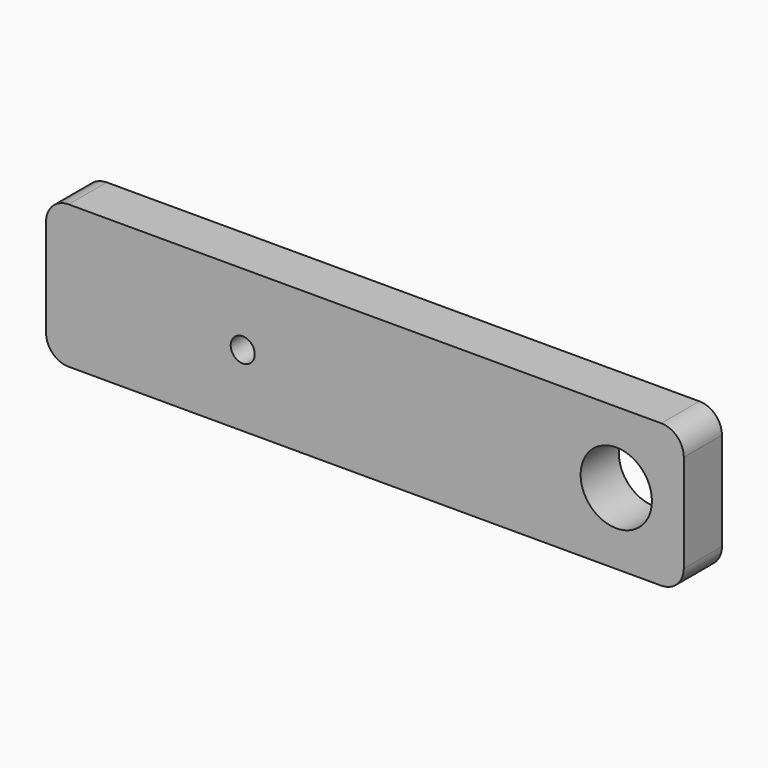
from build123d import *

# Parameters (mm, degrees)
F0_W     = 85
F0_H     = 19.05
F1_DEPTH = 6.35
F2_R     = 4.75
F3_DEPTH = 6.35
F4_R     = 1.5
F5_DEPTH = 5
F6_R     = 1.5
F7_DEPTH = 5
F8_R     = 1.6
F9_DEPTH = 6.35
F10_R    = 3


with BuildPart() as f1:
    # F0 (on Front) → F1 (new body)
    with BuildSketch(Plane.XZ):
        Rectangle(F0_W, F0_H)
    extrude(amount=F1_DEPTH)

    # F2 (on Front) → F3 (cut)
    with BuildSketch(Plane.XZ):
        with Locations((33.5, 0)):
            Circle(F2_R)
    extrude(amount=F3_DEPTH, mode=Mode.SUBTRACT)

    # F4 (on face) → F5 (cut)
    with BuildSketch(Plane(origin=(0, 0, -9.525), x_dir=(1, 0, 0), z_dir=(0, 0, -1))):
        with Locations((25.5, 3.175)):
            Circle(F4_R)
    extrude(amount=-F5_DEPTH, mode=Mode.SUBTRACT)

    # F6 (on face) → F7 (cut)
    with BuildSketch(Plane(origin=(0, 0, -9.525), x_dir=(1, 0, 0), z_dir=(0, 0, -1))):
        with Locations((-24, 3.175)):
            Circle(F6_R)
    extrude(amount=-F7_DEPTH, mode=Mode.SUBTRACT)

    # F8 (on face) → F9 (cut)
    with BuildSketch(Plane.XZ.offset(6.35)):
        with Locations((-16.29008, 0)):
            Circle(F8_R)
    extrude(amount=-F9_DEPTH, mode=Mode.SUBTRACT)

    # F10
    f10_edges = [f1.edges().sort_by_distance(p)[0] for p in [
        (-42.5, -3.175, 9.525),
        (-42.5, -3.175, -9.525),
        (42.5, -3.175, 9.525),
        (42.5, -3.175, -9.525),
    ]]
    fillet(f10_edges, radius=F10_R)


solid = f1.part
